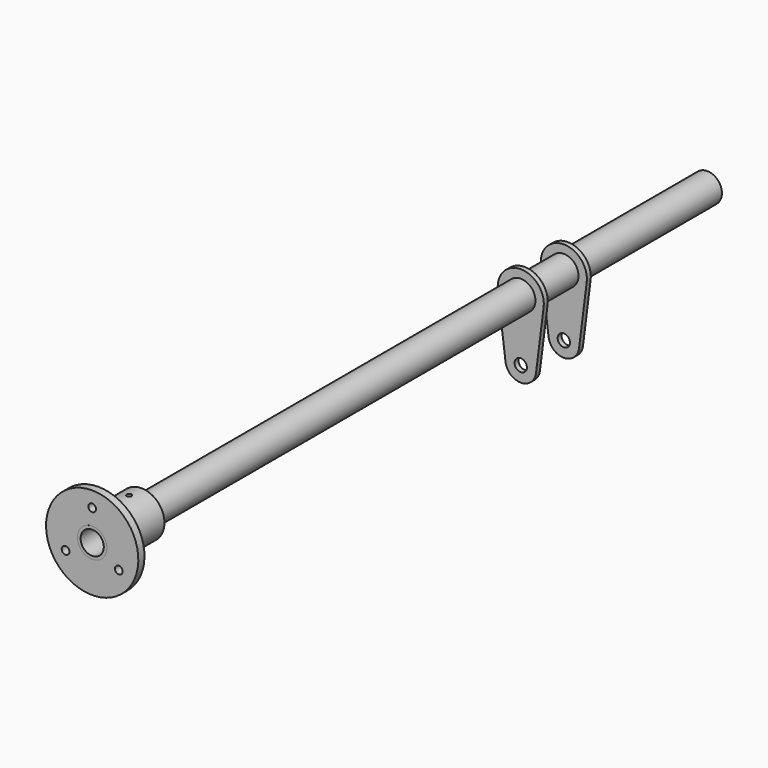
from build123d import *

# Parameters (mm, degrees)
F0_R      = 9.55
F0_R_2    = 7.55
F1_DEPTH  = 500
F4_R      = 2.5
F5_DEPTH  = 500.001
F6_R      = 1.55
F7_DEPTH  = 30.001
F9_R      = 4
F9_R_2    = 9.55
F10_DEPTH = 1.6


with BuildPart() as f1:
    # F0 (on Front) → F1 (new body)
    with BuildSketch(Plane.XZ):
        Circle(F0_R)
        Circle(F0_R_2, mode=Mode.SUBTRACT)
    extrude(amount=-F1_DEPTH)


with BuildPart() as f3:
    # F2 (on Right) → F3 (revolve)
    with BuildSketch(Plane.YZ):
        Polygon((0, 30), (0, 9.55), (40, 9.55), (40, 15), (5, 15), (5, 30), align=None)
    revolve(axis=Axis((0, 36.1326225102, 0), (0, 1, 0)))

    # F4 (on face) → F5 (cut, through all)
    with BuildSketch(Plane.XZ):
        with Locations((0, 20)):
            Circle(F4_R)
        with Locations((-17.3205080757, -10)):
            Circle(F4_R)
        with Locations((17.3205080757, -10)):
            Circle(F4_R)
    extrude(amount=-F5_DEPTH, mode=Mode.SUBTRACT)

    # F6 (on Top) → F7 (cut, through all)
    with BuildSketch(Plane.XY):
        with Locations((0, 30)):
            Circle(F6_R)
        with Locations((0, 15)):
            Circle(F6_R)
    extrude(amount=F7_DEPTH, mode=Mode.SUBTRACT)


with BuildPart() as f10:
    # F9 (on offset) → F10 (new body, symmetric)
    with BuildSketch(Plane(origin=(0, 350, 0), x_dir=(-1, 0, 0), z_dir=(0, 1, 0))):
        with BuildLine():
            Line((9.9215674165, -41.25), (14.8823511247, -1.875))
            ThreePointArc((14.8823511247, -1.875), (0, 15), (-14.8823511247, -1.875))
            Line((-14.8823511247, -1.875), (-9.9215674165, -41.25))
            ThreePointArc((-9.9215674165, -41.25), (0, -50), (9.9215674165, -41.25))
        make_face()
        with Locations((0, -40)):
            Circle(F9_R, mode=Mode.SUBTRACT)
        Circle(F9_R_2, mode=Mode.SUBTRACT)
    extrude(amount=F10_DEPTH, both=True)


with BuildPart() as f11_1:
    # F11: copy of F10
    add(f10.part.moved(Location((0, 35, 0))))


solid = Compound([f1.part, f3.part, f10.part, f11_1.part])
